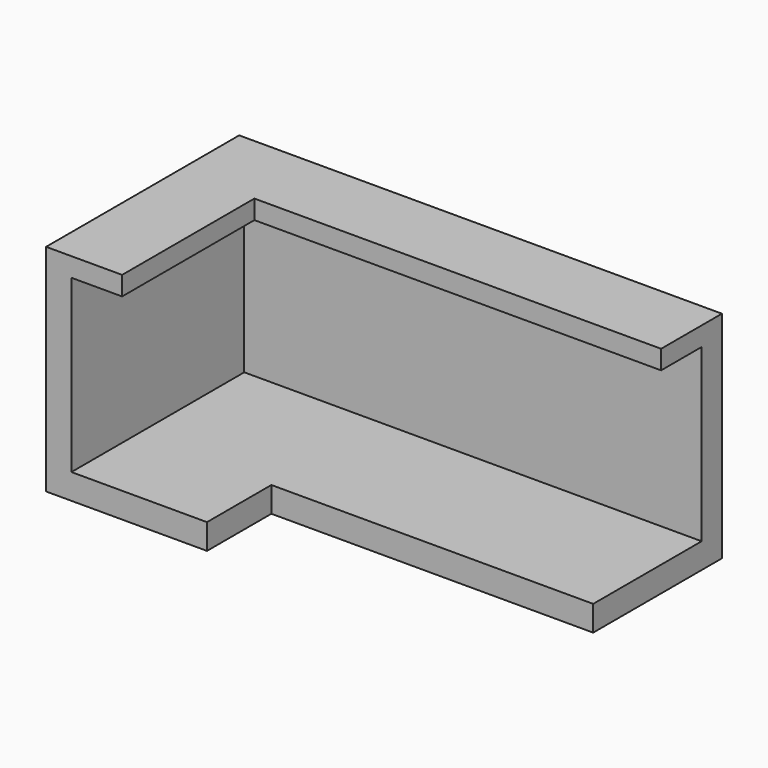
from build123d import *

# Parameters (mm, degrees)
F1_DEPTH = 4
F3_DEPTH = 27
F5_DEPTH = 3


with BuildPart() as f1:
    # F0 (on Top) → F1 (new body)
    with BuildSketch(Plane.XY):
        Polygon((0, 38.1), (0, 0), (25.4, 0), (25.4, 12.7), (76.2, 12.7), (76.2, 38.1), align=None)
    extrude(amount=F1_DEPTH)

    # F2 (on face) → F3 (join)
    with BuildSketch(Plane.XY.offset(4)):
        Polygon((76.2, 34.1), (76.2, 38.1), (0, 38.1), (0, 0), (4, 0), (4, 34.1), align=None)
    extrude(amount=F3_DEPTH)

    # F4 (on face) → F5 (join)
    with BuildSketch(Plane.XY.offset(31)):
        Polygon((76.2, 26.1), (76.2, 34.1), (4, 34.1), (4, 0), (12, 0), (12, 26.1), align=None)
        Polygon((76.2, 34.1), (76.2, 38.1), (0, 38.1), (0, 0), (4, 0), (4, 34.1), align=None)
    extrude(amount=F5_DEPTH)


solid = f1.part
